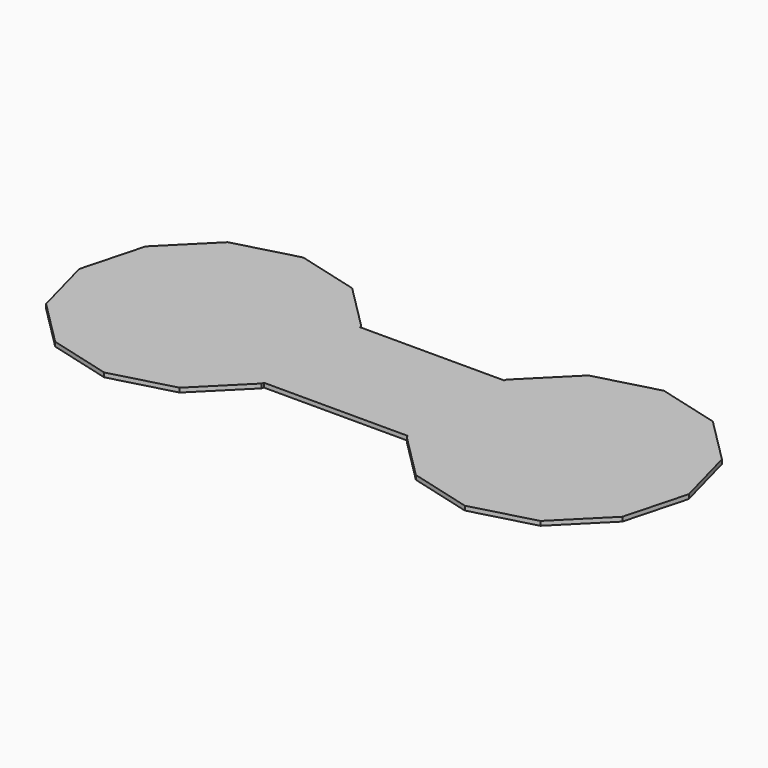
from build123d import *

# Parameters (mm, degrees)
F1_DEPTH = 12.7
F3_W     = 1066.8
F3_H     = 355.6
F4_DEPTH = 12.7


with BuildPart() as f1:
    # F0 (on Top) → F1 (new body)
    with BuildSketch(Plane.XY):
        Polygon((184.072105, 318.822238), (0, 368.14421), (-184.072105, 318.822238), (-318.822238, 184.072105), (-368.14421, 0), (-318.822238, -184.072105), (-184.072105, -318.822238), (0, -368.14421), (184.072105, -318.822238), (318.822238, -184.072105), (368.14421, 0), (318.822238, 184.072105), align=None)
    extrude(amount=F1_DEPTH)



with BuildPart() as f2_1:
    # F2: copy of F1
    add(f1.part.moved(Location((1066.8, 0, 0))))


with BuildPart() as f1_1:
    add(f1.part)

    add(f2_1.part)  # F4 merges F2_1
    # F3 (on face) → F4 (join, through all)
    with BuildSketch(Plane.XY.offset(12.7)):
        with Locations((533.4, 0)):
            Rectangle(F3_W, F3_H)
    extrude(amount=-F4_DEPTH)


solid = f1_1.part
